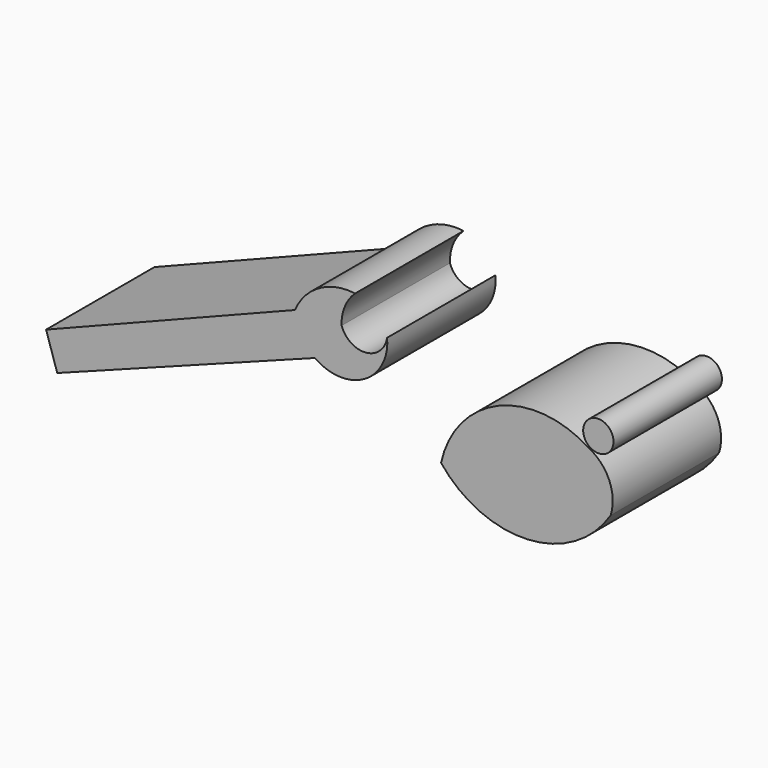
from build123d import *

# Parameters (mm, degrees)
F0_R     = 2.845108
F1_DEPTH = 25.4


with BuildPart() as f1:
    # F0 (on Front) → F1 (new body)
    with BuildSketch(Plane.XZ):
        with BuildLine():
            ThreePointArc((59.312634, 0), (42.507878, 1.441697), (31.701341, -11.508094))
            ThreePointArc((31.701341, -11.508094), (48.029903, -18.863164), (63.496172, -9.834683))
            ThreePointArc((63.496172, -9.834683), (63.242392, -4.135486), (59.312634, 0))
        make_face()
        with Locations((61.195228, 2.506729)):
            Circle(F0_R)
        with BuildLine():
            Line((-42.347129, -13.599859), (-40.255364, -20.084329))
            Line((-40.255364, -20.084329), (8.064403, -1.885976))
            ThreePointArc((8.064403, -1.885976), (17.311801, -2.355844), (21.594434, 5.853553))
            ThreePointArc((21.594434, 5.853553), (17.626235, 2.107666), (13.054338, 5.086934))
            ThreePointArc((13.054338, 5.086934), (13.650586, 8.428471), (15.594754, 11.210842))
            ThreePointArc((15.594754, 11.210842), (8.871842, 9.905873), (4.299225, 4.807671))
            Line((4.299225, 4.807671), (-42.347129, -13.599859))
        make_face()
    extrude(amount=F1_DEPTH)


solid = f1.part
